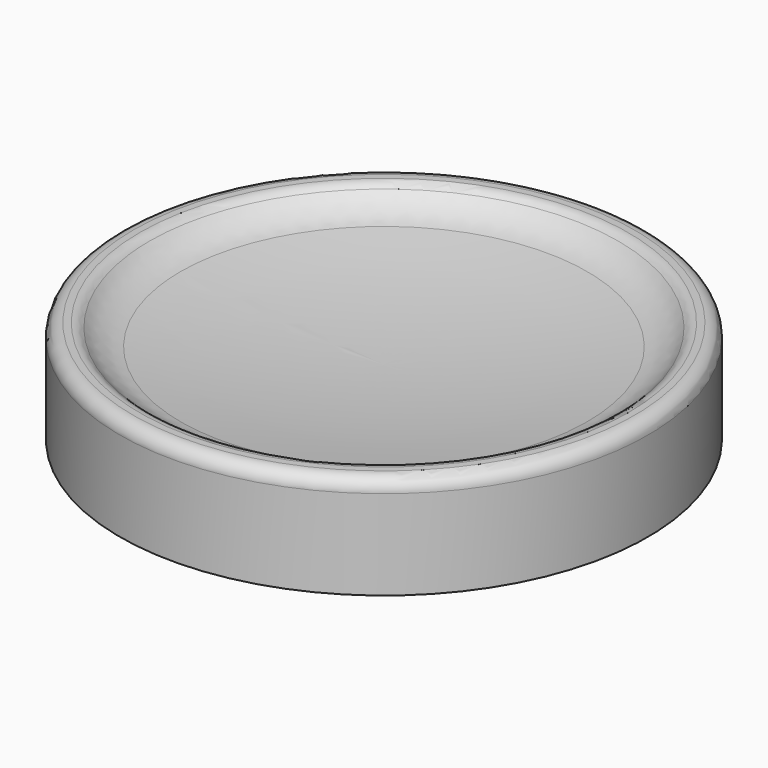
from build123d import *

# Parameters (mm, degrees)
F2_R = 1.27
F3_R = 5.08


with BuildPart() as f1:
    # F0 (on Front) → F1 (revolve)
    with BuildSketch(Plane.XZ):
        with BuildLine():
            Line((0, 0), (0, 6.35))
            ThreePointArc((0, 6.35), (-11.155621, 6.840901), (-22.225, 8.309809))
            Line((-22.225, 8.309809), (-22.225, 9.897309))
            Line((-22.225, 9.897309), (-25.4, 9.897309))
            Line((-25.4, 9.897309), (-25.4, 0))
            Line((-25.4, 0), (0, 0))
        make_face()
    revolve(axis=Axis((0, 0, 3.175), (0, 0, -1)))

    # F2
    f2_edges = [f1.edges().sort_by_distance(p)[0] for p in [
        (22.225, 0, 9.897309),
        (25.4, 0, 9.897309),
    ]]
    fillet(f2_edges, radius=F2_R)

    # F3
    f3_edges = [f1.edges().sort_by_distance(p)[0] for p in [
        (22.225, 0, 8.309809),
    ]]
    fillet(f3_edges, radius=F3_R)


solid = f1.part
